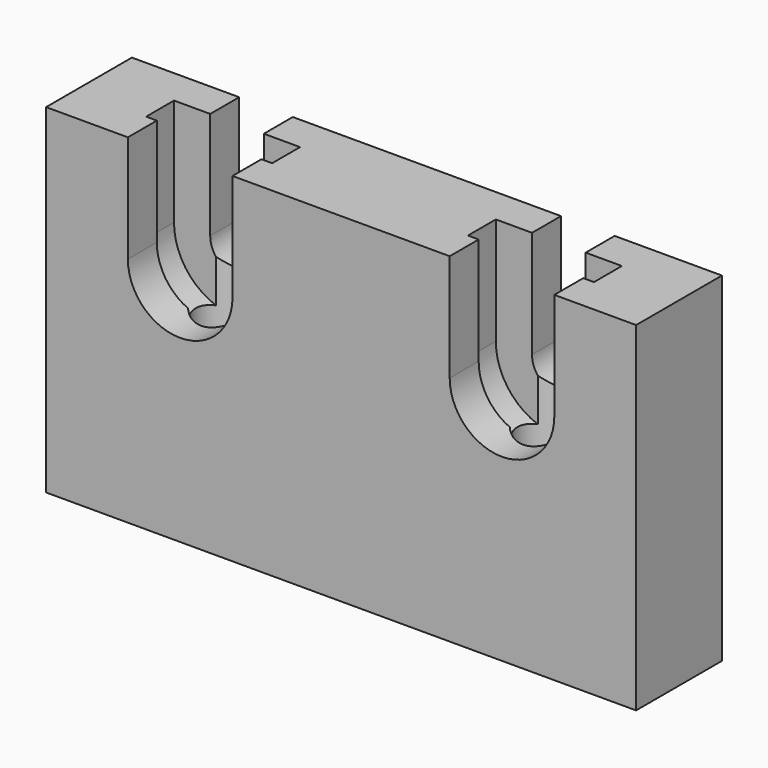
from build123d import *

# Parameters (mm, degrees)
F0_W      = 110
F0_H      = 63.25
F1_DEPTH  = 20
F2_R      = 9.75
F3_DEPTH  = 6.75
F4_R      = 11.75
F5_DEPTH  = 6.5
F6_R      = 5
F7_DEPTH  = 6.75
F8_W      = 19.5
F8_H      = 20
F9_DEPTH  = 6.75
F10_W     = 23.5
F10_H     = 20
F11_DEPTH = 6.5
F12_W     = 10
F12_H     = 20
F13_DEPTH = 6.75
F14_R     = 5.1
F15_DEPTH = 50
F16_R     = 3.05
F17_DEPTH = 13.25


with BuildPart() as f1:
    # F0 (on Front) → F1 (new body)
    with BuildSketch(Plane.XZ):
        with Locations((55, 31.625)):
            Rectangle(F0_W, F0_H)
    extrude(amount=F1_DEPTH)

    # F2 (on face) → F3 (cut)
    with BuildSketch(Plane.XZ.offset(20)):
        with Locations((25, 43.25)):
            Circle(F2_R)
        with Locations((85, 43.25)):
            Circle(F2_R)
    extrude(amount=-F3_DEPTH, mode=Mode.SUBTRACT)

    # F4 (on face) → F5 (cut)
    with BuildSketch(Plane.XZ.offset(13.25)):
        with Locations((25, 43.25)):
            Circle(F4_R)
        with Locations((85, 43.25)):
            Circle(F4_R)
    extrude(amount=-F5_DEPTH, mode=Mode.SUBTRACT)

    # F6 (on face) → F7 (cut, through all)
    with BuildSketch(Plane.XZ.offset(6.75)):
        with Locations((25, 43.25)):
            Circle(F6_R)
        with Locations((85, 43.25)):
            Circle(F6_R)
    extrude(amount=-F7_DEPTH, mode=Mode.SUBTRACT)

    # F8 (on face) + F6 (on face) → F9 (cut)
    with BuildSketch(Plane.XZ.offset(20)):
        with Locations((25, 53.25)):
            Rectangle(F8_W, F8_H)
        with Locations((85, 53.25)):
            Rectangle(F8_W, F8_H)
    with BuildSketch(Plane.XZ.offset(6.75)):
        with Locations((25, 43.25)):
            Circle(F6_R)
        with Locations((85, 43.25)):
            Circle(F6_R)
    extrude(amount=-F9_DEPTH, mode=Mode.SUBTRACT)

    # F10 (on face) → F11 (cut)
    with BuildSketch(Plane.XZ.offset(13.25)):
        with Locations((25, 53.25)):
            Rectangle(F10_W, F10_H)
        with Locations((85, 53.25)):
            Rectangle(F10_W, F10_H)
    extrude(amount=-F11_DEPTH, mode=Mode.SUBTRACT)

    # F12 (on face) → F13 (cut, through all)
    with BuildSketch(Plane.XZ.offset(6.75)):
        with Locations((25, 53.25)):
            Rectangle(F12_W, F12_H)
        with Locations((85, 53.25)):
            Rectangle(F12_W, F12_H)
    extrude(amount=-F13_DEPTH, mode=Mode.SUBTRACT)

    # F14 (on face) → F15 (cut)
    with BuildSketch(Plane.XY.offset(63.25)):
        with Locations((25, -10)):
            Circle(F14_R)
        with Locations((85, -10)):
            Circle(F14_R)
    extrude(amount=-F15_DEPTH, mode=Mode.SUBTRACT)

    # F16 (on face) → F17 (cut, through all)
    with BuildSketch(Plane(origin=(0, 0, 0), x_dir=(1, 0, 0), z_dir=(0, 0, -1))):
        with Locations((25, 10)):
            Circle(F16_R)
        with Locations((85, 10)):
            Circle(F16_R)
    extrude(amount=-F17_DEPTH, mode=Mode.SUBTRACT)


solid = f1.part
